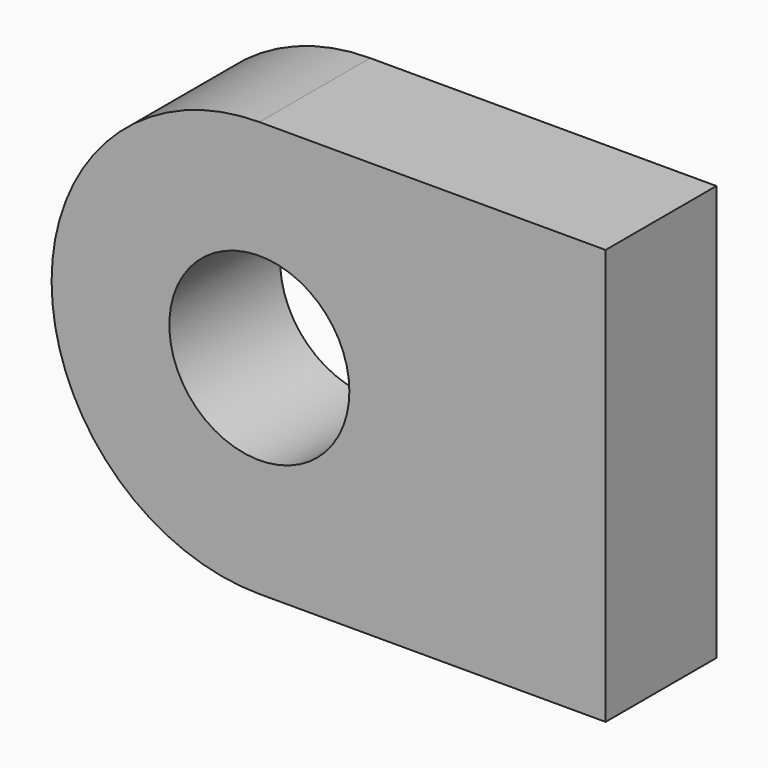
from build123d import *

# Parameters (mm, degrees)
F0_R     = 32.5
F1_DEPTH = 50


with BuildPart() as f1:
    # F0 (on Front) → F1 (new body)
    with BuildSketch(Plane.XZ):
        with BuildLine():
            Line((-395.797376, 46.109863), (-395.797376, 121.109863))
            Line((-395.797376, 121.109863), (-520.797376, 121.109863))
            ThreePointArc((-520.797376, 121.109863), (-573.830384, 99.142871), (-595.797376, 46.109863))
            ThreePointArc((-595.797376, 46.109863), (-573.830384, -6.923146), (-520.797376, -28.890137))
            Line((-520.797376, -28.890137), (-395.797376, -28.890137))
            Line((-395.797376, -28.890137), (-395.797376, 46.109863))
        make_face()
        with Locations((-520.797376, 46.109863)):
            Circle(F0_R, mode=Mode.SUBTRACT)
        with BuildLine():
            Line((-395.797376, 46.109863), (-395.797376, 121.109863))
            Line((-395.797376, 121.109863), (-520.797376, 121.109863))
            ThreePointArc((-520.797376, 121.109863), (-573.830384, 99.142871), (-595.797376, 46.109863))
            ThreePointArc((-595.797376, 46.109863), (-573.830384, -6.923146), (-520.797376, -28.890137))
            Line((-520.797376, -28.890137), (-395.797376, -28.890137))
            Line((-395.797376, -28.890137), (-395.797376, 46.109863))
        make_face()
        with Locations((-520.797376, 46.109863)):
            Circle(F0_R, mode=Mode.SUBTRACT)
    extrude(amount=F1_DEPTH)


solid = f1.part
